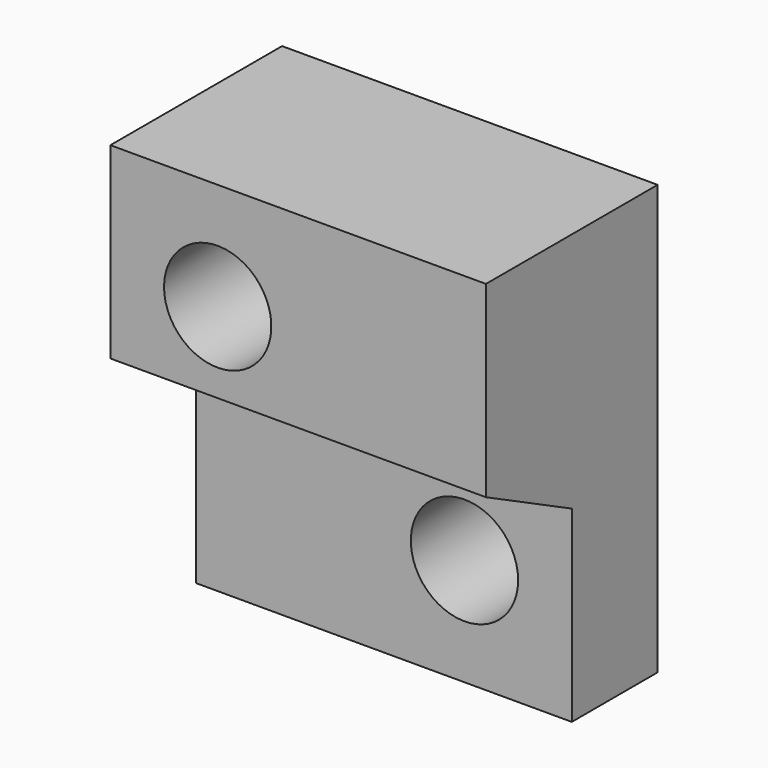
from build123d import *

# Parameters (mm, degrees)
F1_DEPTH = 177.8
F2_R     = 25.4
F3_DEPTH = 136.398
F4_R     = 25.4
F5_DEPTH = 138.684


with BuildPart() as f1:
    # F0 (on Right) → F1 (new body)
    with BuildSketch(Plane.YZ):
        Polygon((0, 0), (0, -88.9), (50.8, -88.9), (50.8, 114.3), (-50.8, 114.3), (-50.8, 25.4), align=None)
    extrude(amount=F1_DEPTH)

    # F2 (on Front) → F3 (cut)
    with BuildSketch(Plane.XZ):
        with Locations((50.8, 63.5)):
            Circle(F2_R)
        with Locations((127, -38.1)):
            Circle(F2_R)
    extrude(amount=-F3_DEPTH, mode=Mode.SUBTRACT)

    # F4 (on face) → F5 (cut)
    with BuildSketch(Plane(origin=(0, 50.8, 0), x_dir=(-1, 0, 0), z_dir=(0, 1, 0))):
        with Locations((-50.8, 63.5)):
            Circle(F4_R)
    extrude(amount=-F5_DEPTH, mode=Mode.SUBTRACT)


solid = f1.part
